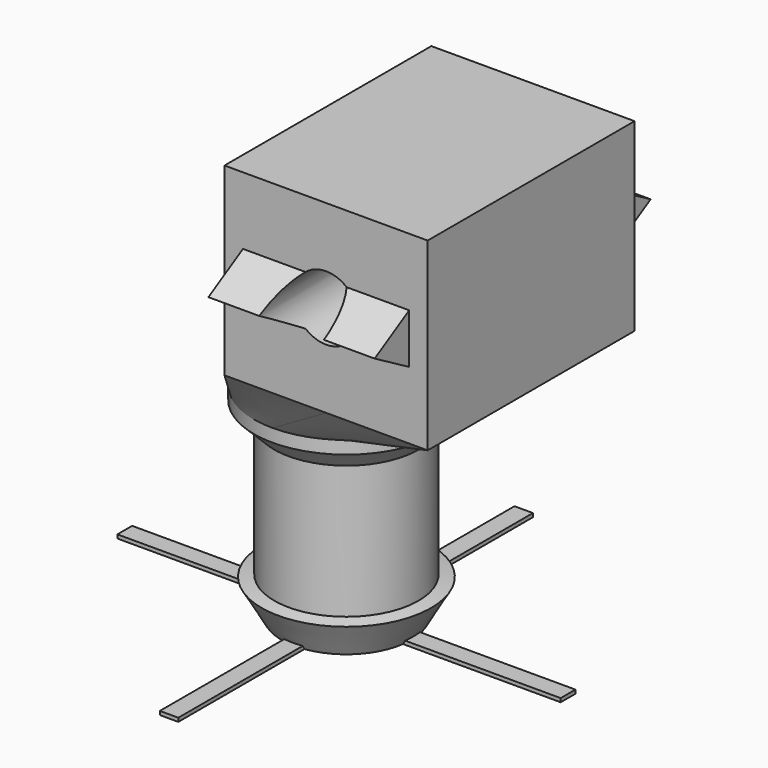
from build123d import *

# Parameters (mm, degrees)
SKETCH002_R       = 5
SKETCH003_W       = 14
SKETCH003_H       = 11
SKETCH004_W       = 14
SKETCH004_H       = 11
PAD_DEPTH         = 9
SKETCH006_R       = 1.75
POCKET_DEPTH      = 9.339269
POCKET_DEPTH_BACK = 9.339269
PAD001_DEPTH      = 0.2


with BuildPart() as part:
    # Sketch001 → Revolution001 (revolve)
    with BuildSketch(Plane.YZ):
        Polygon((0, 0), (3.5, 0), (4.584969, 1.879221), (3.9, 2), (3.9, 9.2), (5, 10.3), (5, 11), (0, 11), align=None)
    revolve(axis=Axis((0, 0, 0), (0, 0, 1)))

    # Sketch002 (on DatumPlane) → AdditiveLoft section 0
    with BuildSketch(Plane(origin=(0, 0, 11), x_dir=(0, -1, 0), z_dir=(0, 0, 1))):
        Circle(SKETCH002_R)
    # Sketch003 (on DatumPlane) → AdditiveLoft section 1
    with BuildSketch(Plane(origin=(0, 0, 14), x_dir=(0, -1, 0), z_dir=(0, 0, 1))):
        with Locations((0, 4.5)):
            Rectangle(SKETCH003_W, SKETCH003_H)
    # Sketch004 (on DatumPlane) → AdditiveLoft section 2
    with BuildSketch(Plane(origin=(0, 0, 24), x_dir=(0, -1, 0), z_dir=(0, 0, 1))):
        with Locations((0, 4.5)):
            Rectangle(SKETCH004_W, SKETCH004_H)
    loft(ruled=True)

    # Sketch005 → Pad (new body)
    with BuildSketch(Plane.YZ):
        Polygon((-7, 20.35), (-9.338269, 19), (-7, 17.65), (7, 17.65), (9.338269, 19), (7, 20.35), align=None)
    extrude(amount=PAD_DEPTH)

    # Sketch006 → Pocket (cut, two sides)
    with BuildSketch(Plane.XZ) as pocket_sk:
        with Locations((4.5, 19)):
            Circle(SKETCH006_R)
    extrude(amount=-POCKET_DEPTH, mode=Mode.SUBTRACT)
    extrude(pocket_sk.sketch, amount=POCKET_DEPTH_BACK, mode=Mode.SUBTRACT)

    # Sketch007 → Pad001 (join)
    with BuildSketch(Plane.XY):
        Polygon((12, 0.5), (3, 0.5), (0.5, 3), (0.5, 12), (-0.5, 12), (-0.5, 3), (-3, 0.5), (-12, 0.5), (-12, -0.5), (-3, -0.5), (-0.5, -3), (-0.5, -12), (0.5, -12), (0.5, -3), (3, -0.5), (12, -0.5), align=None)
    extrude(amount=PAD001_DEPTH)


solid = part.part
